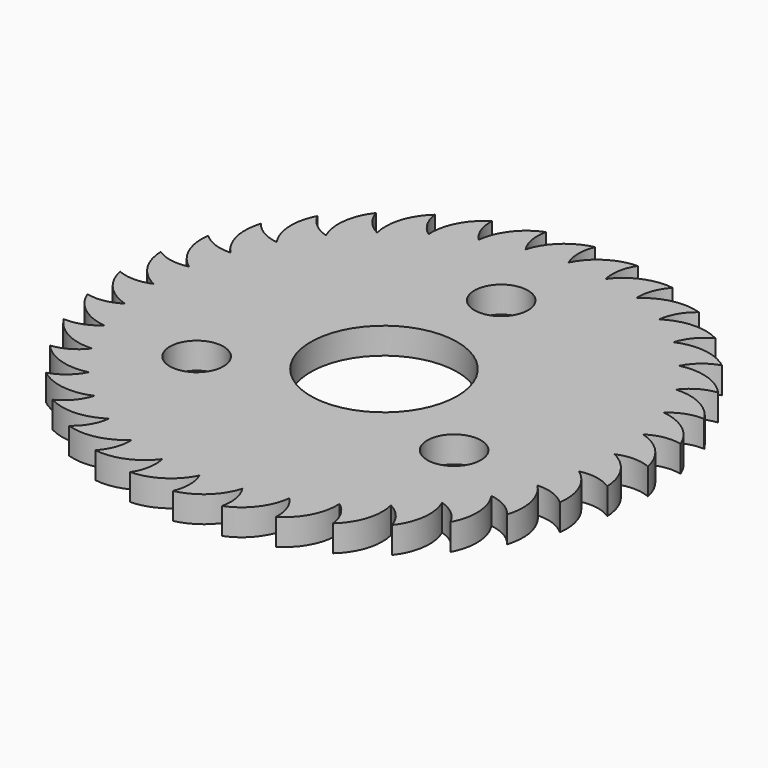
from build123d import *

# Parameters (mm, degrees)
F0_R     = 34.7
F1_DEPTH = 12.5
F2_R     = 12.7
F3_DEPTH = 25


with BuildPart() as f1:
    # F0 (on Top) → F1 (new body)
    with BuildSketch(Plane.XY):
        with BuildLine():
            ThreePointArc((18.962381, 107.541007), (18.732532, 115.603405), (21.706022, 123.100969))
            ThreePointArc((21.706022, 123.100969), (8.92339, 119.163541), (0, 109.2))
            ThreePointArc((0, 109.2), (-1.626378, 117.1), (0, 125))
            ThreePointArc((0, 125), (-11.904708, 118.902709), (-18.962381, 107.541007))
            ThreePointArc((-18.962381, 107.541007), (-21.935871, 115.03857), (-21.706022, 123.100969))
            ThreePointArc((-21.706022, 123.100969), (-32.371088, 115.029079), (-37.3486, 102.614434))
            ThreePointArc((-37.3486, 102.614434), (-41.578854, 109.481752), (-42.752518, 117.461578))
            ThreePointArc((-42.752518, 117.461578), (-51.853888, 107.660348), (-54.6, 94.569974))
            ThreePointArc((-54.6, 94.569974), (-59.958484, 100.598386), (-62.5, 108.253175))
            ThreePointArc((-62.5, 108.253175), (-69.761134, 97.020413), (-70.192407, 83.652053))
            ThreePointArc((-70.192407, 83.652053), (-76.516307, 88.658389), (-80.348451, 95.755555))
            ThreePointArc((-80.348451, 95.755555), (-85.548724, 83.432561), (-83.652053, 70.192407))
            ThreePointArc((-83.652053, 70.192407), (-90.74922, 74.024552), (-95.755555, 80.348451))
            ThreePointArc((-95.755555, 80.348451), (-98.736959, 67.309653), (-94.569974, 54.6))
            ThreePointArc((-94.569974, 54.6), (-102.224764, 57.141516), (-108.253175, 62.5))
            ThreePointArc((-108.253175, 62.5), (-108.925121, 49.141575), (-102.614434, 37.3486))
            ThreePointArc((-102.614434, 37.3486), (-110.59426, 38.522264), (-117.461578, 42.752518))
            ThreePointArc((-117.461578, 42.752518), (-115.803648, 29.480355), (-107.541007, 18.962381))
            ThreePointArc((-107.541007, 18.962381), (-115.603405, 18.732532), (-123.100969, 21.706022))
            ThreePointArc((-123.100969, 21.706022), (-119.163541, 8.92339), (-109.2, 0))
            ThreePointArc((-109.2, 0), (-117.1, -1.626378), (-125, 0))
            ThreePointArc((-125, 0), (-118.902709, -11.904708), (-107.541007, -18.962381))
            ThreePointArc((-107.541007, -18.962381), (-115.03857, -21.935871), (-123.100969, -21.706022))
            ThreePointArc((-123.100969, -21.706022), (-115.029079, -32.371088), (-102.614434, -37.3486))
            ThreePointArc((-102.614434, -37.3486), (-109.481752, -41.578854), (-117.461578, -42.752518))
            ThreePointArc((-117.461578, -42.752518), (-107.660348, -51.853888), (-94.569974, -54.6))
            ThreePointArc((-94.569974, -54.6), (-100.598386, -59.958484), (-108.253175, -62.5))
            ThreePointArc((-108.253175, -62.5), (-97.020413, -69.761134), (-83.652053, -70.192407))
            ThreePointArc((-83.652053, -70.192407), (-88.658389, -76.516307), (-95.755555, -80.348451))
            ThreePointArc((-95.755555, -80.348451), (-83.432561, -85.548724), (-70.192407, -83.652053))
            ThreePointArc((-70.192407, -83.652053), (-74.024552, -90.74922), (-80.348451, -95.755555))
            ThreePointArc((-80.348451, -95.755555), (-67.309653, -98.736959), (-54.6, -94.569974))
            ThreePointArc((-54.6, -94.569974), (-57.141516, -102.224764), (-62.5, -108.253175))
            ThreePointArc((-62.5, -108.253175), (-49.141575, -108.925121), (-37.3486, -102.614434))
            ThreePointArc((-37.3486, -102.614434), (-38.522264, -110.59426), (-42.752518, -117.461578))
            ThreePointArc((-42.752518, -117.461578), (-29.480355, -115.803648), (-18.962381, -107.541007))
            ThreePointArc((-18.962381, -107.541007), (-18.732532, -115.603405), (-21.706022, -123.100969))
            ThreePointArc((-21.706022, -123.100969), (-8.92339, -119.163541), (0, -109.2))
            ThreePointArc((0, -109.2), (1.626378, -117.1), (0, -125))
            ThreePointArc((0, -125), (11.904708, -118.902709), (18.962381, -107.541007))
            ThreePointArc((18.962381, -107.541007), (21.935871, -115.03857), (21.706022, -123.100969))
            ThreePointArc((21.706022, -123.100969), (32.371088, -115.029079), (37.3486, -102.614434))
            ThreePointArc((37.3486, -102.614434), (41.578854, -109.481752), (42.752518, -117.461578))
            ThreePointArc((42.752518, -117.461578), (51.853888, -107.660348), (54.6, -94.569974))
            ThreePointArc((54.6, -94.569974), (59.958484, -100.598386), (62.5, -108.253175))
            ThreePointArc((62.5, -108.253175), (69.761134, -97.020413), (70.192407, -83.652053))
            ThreePointArc((70.192407, -83.652053), (76.516307, -88.658389), (80.348451, -95.755555))
            ThreePointArc((80.348451, -95.755555), (85.548724, -83.432561), (83.652053, -70.192407))
            ThreePointArc((83.652053, -70.192407), (90.74922, -74.024552), (95.755555, -80.348451))
            ThreePointArc((95.755555, -80.348451), (98.736959, -67.309653), (94.569974, -54.6))
            ThreePointArc((94.569974, -54.6), (102.224764, -57.141516), (108.253175, -62.5))
            ThreePointArc((108.253175, -62.5), (108.925121, -49.141575), (102.614434, -37.3486))
            ThreePointArc((102.614434, -37.3486), (110.59426, -38.522264), (117.461578, -42.752518))
            ThreePointArc((117.461578, -42.752518), (115.803648, -29.480355), (107.541007, -18.962381))
            ThreePointArc((107.541007, -18.962381), (115.603405, -18.732532), (123.100969, -21.706022))
            ThreePointArc((123.100969, -21.706022), (119.163541, -8.92339), (109.2, 0))
            ThreePointArc((109.2, 0), (117.1, 1.626378), (125, 0))
            ThreePointArc((125, 0), (118.902709, 11.904708), (107.541007, 18.962381))
            ThreePointArc((107.541007, 18.962381), (115.03857, 21.935871), (123.100969, 21.706022))
            ThreePointArc((123.100969, 21.706022), (115.029079, 32.371088), (102.614434, 37.3486))
            ThreePointArc((102.614434, 37.3486), (109.481752, 41.578854), (117.461578, 42.752518))
            ThreePointArc((117.461578, 42.752518), (107.660348, 51.853888), (94.569974, 54.6))
            ThreePointArc((94.569974, 54.6), (100.598386, 59.958484), (108.253175, 62.5))
            ThreePointArc((108.253175, 62.5), (97.020413, 69.761134), (83.652053, 70.192407))
            ThreePointArc((83.652053, 70.192407), (88.658389, 76.516307), (95.755555, 80.348451))
            ThreePointArc((95.755555, 80.348451), (83.432561, 85.548724), (70.192407, 83.652053))
            ThreePointArc((70.192407, 83.652053), (74.024552, 90.74922), (80.348451, 95.755555))
            ThreePointArc((80.348451, 95.755555), (67.309653, 98.736959), (54.6, 94.569974))
            ThreePointArc((54.6, 94.569974), (57.141516, 102.224764), (62.5, 108.253175))
            ThreePointArc((62.5, 108.253175), (49.141575, 108.925121), (37.3486, 102.614434))
            ThreePointArc((37.3486, 102.614434), (38.522264, 110.59426), (42.752518, 117.461578))
            ThreePointArc((42.752518, 117.461578), (29.480355, 115.803648), (18.962381, 107.541007))
        make_face()
        Circle(F0_R, mode=Mode.SUBTRACT)
    extrude(amount=F1_DEPTH)

    # F2 (on face) → F3 (cut)
    with BuildSketch(Plane.XY.offset(12.5)):
        with Locations((-0.491815, 70)):
            Circle(F2_R)
        with Locations((-60.375871, -35.425925)):
            Circle(F2_R)
        with Locations((60.867686, -34.574075)):
            Circle(F2_R)
    extrude(amount=-F3_DEPTH, mode=Mode.SUBTRACT)


solid = f1.part
